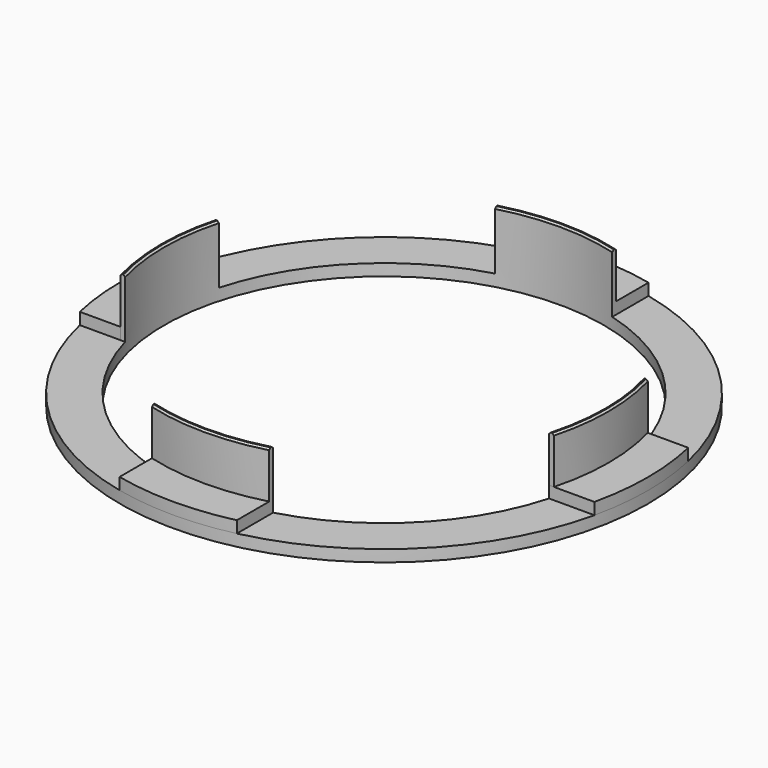
from build123d import *

# Parameters (mm, degrees)
SKETCH_R        = 45
SKETCH_R_2      = 37.5
PAD_DEPTH       = 2
SKETCH001_R     = 38.3
SKETCH001_R_2   = 37.5
PAD001_DEPTH    = 10
CHAMFER_SIZE    = 0.3
CHAMFER001_SIZE = 0.3
SKETCH002_W     = 38.775471
SKETCH002_H     = 41.534115
SKETCH002_W_2   = 92.953724
SKETCH002_H_2   = 53.076206
SKETCH002_W_3   = 93.597454
SKETCH002_H_3   = 43.392277
SKETCH002_W_4   = 61.284782
SKETCH002_H_4   = 58.713959
POCKET_DEPTH    = 10.001
PAD002_DEPTH    = 2


with BuildPart() as part:
    # Sketch → Pad (new body)
    with BuildSketch(Plane.XY):
        Circle(SKETCH_R)
        Circle(SKETCH_R_2, mode=Mode.SUBTRACT)
    extrude(amount=PAD_DEPTH)

    # Sketch001 (on Face4 of Pad) → Pad001 (join)
    with BuildSketch(Plane.XY.offset(2)):
        Circle(SKETCH001_R)
        Circle(SKETCH001_R_2, mode=Mode.SUBTRACT)
    extrude(amount=PAD001_DEPTH)

    # Chamfer
    chamfer_edges = [part.edges().sort_by_distance(p)[0] for p in [
        (-37.5, 0, 12),
    ]]
    chamfer(chamfer_edges, length=CHAMFER_SIZE)

    # Chamfer001
    chamfer001_edges = [part.edges().sort_by_distance(p)[0] for p in [
        (-38.3, 0, 12),
    ]]
    chamfer(chamfer001_edges, length=CHAMFER001_SIZE)

    # Sketch002 (on Face6 of Chamfer001) → Pocket (cut, through all)
    with BuildSketch(Plane.XY.offset(2)):
        with Locations((-29.387735, 30.767057)):
            Rectangle(SKETCH002_W, SKETCH002_H)
        with Locations((56.476862, 36.538103)):
            Rectangle(SKETCH002_W_2, SKETCH002_H_2)
        with Locations((56.798727, -31.696138)):
            Rectangle(SKETCH002_W_3, SKETCH002_H_3)
        with Locations((-40.642391, -39.35698)):
            Rectangle(SKETCH002_W_4, SKETCH002_H_4)
    extrude(amount=POCKET_DEPTH, mode=Mode.SUBTRACT)

    # Sketch003 (on Face31 of Pocket) → Pad002 (join)
    with BuildSketch(Plane.XY.offset(2)):
        with BuildLine():
            ThreePointArc((10, 43.874822), (0, 45), (-10, 43.874822))
            Line((-10, 36.142081), (-10, 43.874822))
            ThreePointArc((10, 36.142081), (0, 37.5), (-10, 36.142081))
            Line((10, 43.874822), (10, 36.142081))
        make_face()
        with BuildLine():
            Line((-10, -43.874822), (-10, -36.142081))
            ThreePointArc((-10, -36.142081), (0, -37.5), (10, -36.142081))
            Line((10, -36.142081), (10, -43.874822))
            ThreePointArc((-10, -43.874822), (0, -45), (10, -43.874822))
        make_face()
        with BuildLine():
            Line((-43.874822, 10), (-36.142081, 10))
            ThreePointArc((-36.142081, 10), (-37.5, 0), (-36.142081, -10))
            Line((-36.142081, -10), (-43.874822, -10))
            ThreePointArc((-43.874822, 10), (-45, 0), (-43.874822, -10))
        make_face()
        with BuildLine():
            Line((43.874822, -10), (36.142081, -10))
            ThreePointArc((36.142081, -10), (37.5, 0), (36.142081, 10))
            Line((36.142081, 10), (43.874822, 10))
            ThreePointArc((43.874822, -10), (45, 0), (43.874822, 10))
        make_face()
    extrude(amount=PAD002_DEPTH)


solid = part.part
